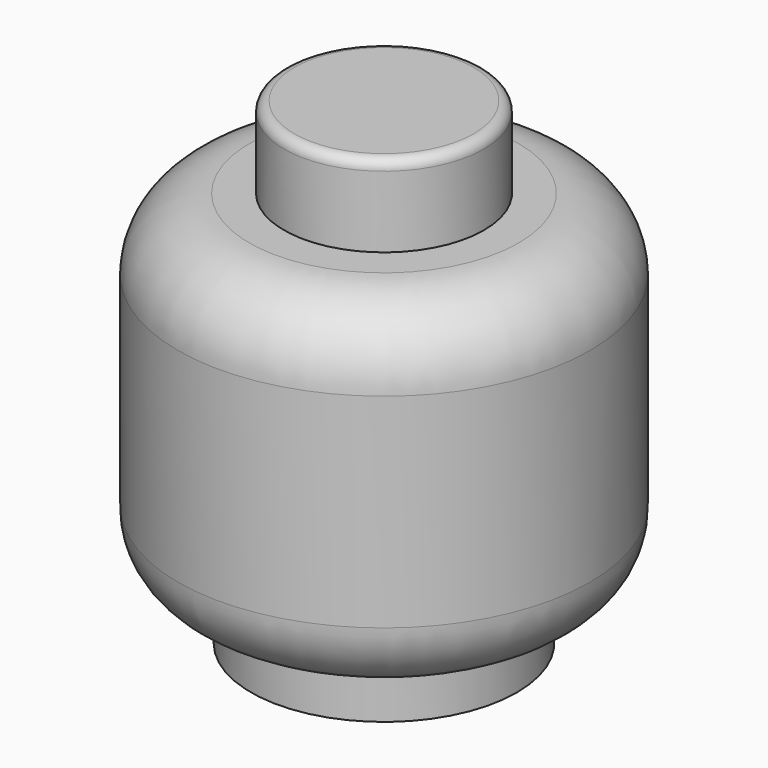
from build123d import *

# Parameters (mm, degrees)
F0_R     = 50.5
F1_DEPTH = 85
F2_R     = 17.5
F3_R     = 24.5
F4_DEPTH = 20
F5_R     = 2.5
F6_R     = 32.6
F7_DEPTH = 12.1


with BuildPart() as f1:
    # F0 (on Top) → F1 (new body)
    with BuildSketch(Plane.XY):
        Circle(F0_R)
    extrude(amount=F1_DEPTH)

    # F2
    f2_edges = [f1.edges().sort_by_distance(p)[0] for p in [
        (50.5, 0, 42.5),
        (-50.5, 0, 0),
        (-50.5, 0, 85),
    ]]
    fillet(f2_edges, radius=F2_R)

    # F3 (on face) → F4 (join)
    with BuildSketch(Plane.XY.offset(85)):
        Circle(F3_R)
    extrude(amount=F4_DEPTH)

    # F5
    f5_edges = [f1.edges().sort_by_distance(p)[0] for p in [
        (-24.5, 0, 105),
    ]]
    fillet(f5_edges, radius=F5_R)

    # F6 (on face) → F7 (join)
    with BuildSketch(Plane(origin=(0, 0, 0), x_dir=(1, 0, 0), z_dir=(0, 0, -1))):
        Circle(F6_R)
    extrude(amount=F7_DEPTH)


solid = f1.part
